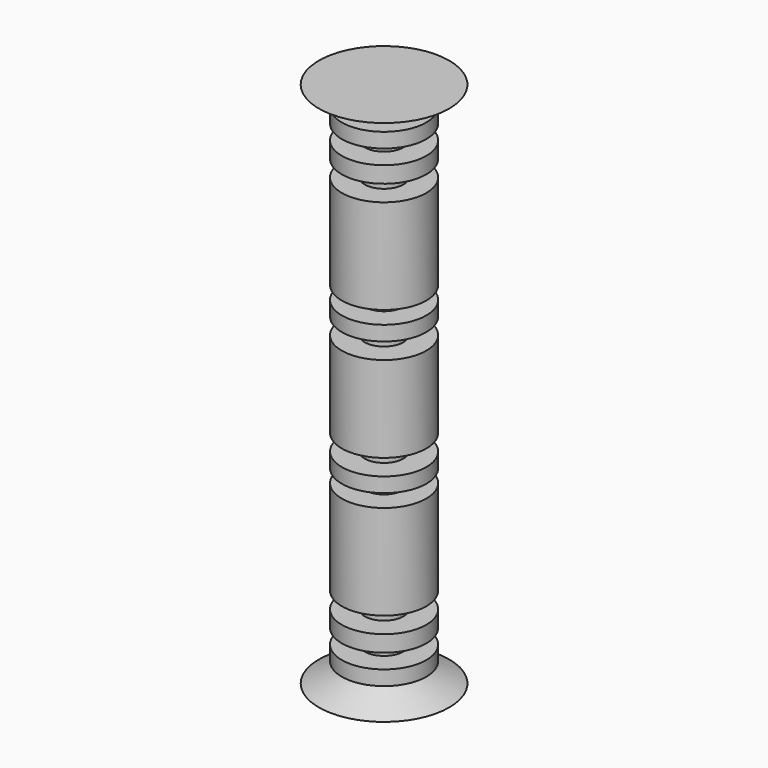
from build123d import *


with BuildPart() as f1:
    # F0 (on Front) → F1 (revolve)
    with BuildSketch(Plane.XZ):
        Polygon((0, 203.711763), (0, 0), (32.655226, 0), (32.655226, 33.276252), (14.980431, 33.276252), (14.980431, 45.901109), (32.655226, 45.901109), (32.655226, 57.263475), (14.980431, 57.263475), (14.980431, 67.363359), (32.655226, 67.363359), (32.655226, 140.587494), (14.980431, 140.587494), (14.980431, 153.212354), (32.655226, 153.212354), (32.655226, 165.837198), (14.980431, 165.837198), (14.980431, 177.199572), (32.655226, 177.199572), (32.655226, 188.561946), (14.980431, 188.561946), (50.33002, 203.711763), align=None)
        Polygon((32.655226, 0), (0, 0), (0, -203.711763), (50.33002, -203.711763), (14.980431, -188.561946), (32.655226, -188.561946), (32.655226, -177.199572), (14.980431, -177.199572), (14.980431, -165.837198), (32.655226, -165.837198), (32.655226, -153.212354), (14.980431, -153.212354), (14.980431, -140.587494), (32.655226, -140.587494), (32.655226, -67.363359), (14.980431, -67.363359), (14.980431, -57.263475), (32.655226, -57.263475), (32.655226, -45.901109), (14.980431, -45.901109), (14.980431, -33.276252), (32.655226, -33.276252), align=None)
    revolve(axis=Axis((0, 0, -101.855882), (0, 0, -1)))


solid = f1.part
